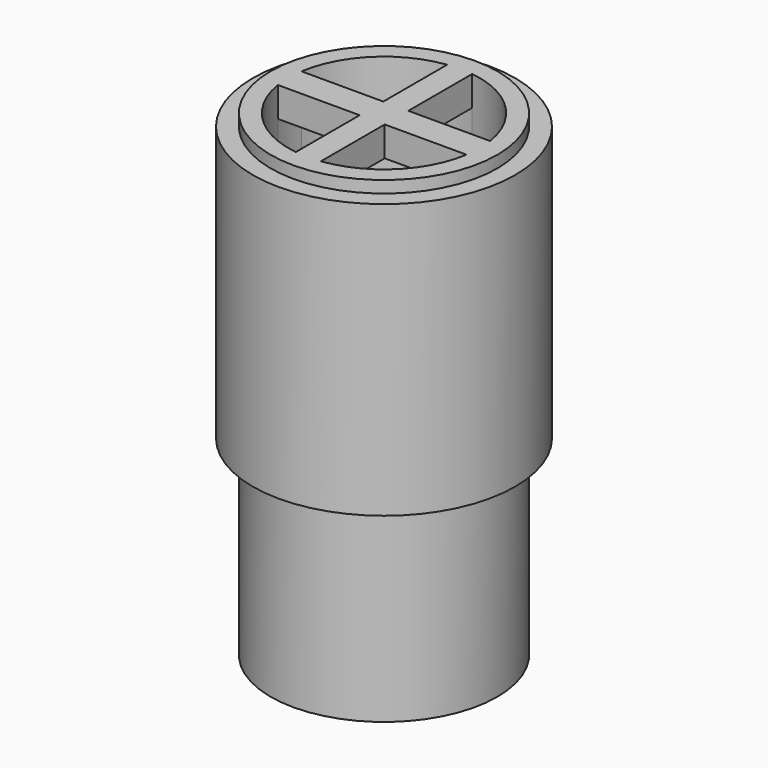
from build123d import *

# Parameters (mm, degrees)
F0_R      = 9.5
F1_DEPTH  = 20
F3_DEPTH  = 50
F5_DEPTH  = 50
F7_DEPTH  = 2.5
F8_R      = 11
F8_R_2    = 9.5
F9_DEPTH  = 39
F10_R     = 11
F10_R_2   = 9.5
F11_DEPTH = 16


with BuildPart() as f1:
    # F0 (on Top) → F1 (new body, symmetric)
    with BuildSketch(Plane.XY):
        Circle(F0_R)
    extrude(amount=F1_DEPTH, both=True)

    # F2 (on face) → F3 (cut)
    with BuildSketch(Plane.XY.offset(20)):
        with BuildLine():
            Line((-1.0508030978, 1.2395313024), (-1.0508030978, 7.9306880439))
            ThreePointArc((-1.0508030978, 7.9306880439), (-5.5890325577, 5.7238723841), (-7.9033892825, 1.2395313024))
            Line((-7.9033892825, 1.2395313024), (-1.0508030978, 1.2395313024))
        make_face()
        with BuildLine():
            Line((1.0508030978, 1.2395313024), (7.9033892825, 1.2395313024))
            ThreePointArc((7.9033892825, 1.2395313024), (5.5890325577, 5.7238723841), (1.0508030978, 7.9306880439))
            Line((1.0508030978, 7.9306880439), (1.0508030978, 1.2395313024))
        make_face()
        with BuildLine():
            ThreePointArc((1.0508030978, -7.9306880439), (5.5890325577, -5.7238723841), (7.9033892825, -1.2395313024))
            Line((7.9033892825, -1.2395313024), (1.0508030978, -1.2395313024))
            Line((1.0508030978, -1.2395313024), (1.0508030978, -7.9306880439))
        make_face()
        with BuildLine():
            ThreePointArc((-7.9033892825, -1.2395313024), (-5.5890325577, -5.7238723841), (-1.0508030978, -7.9306880439))
            Line((-1.0508030978, -7.9306880439), (-1.0508030978, -1.2395313024))
            Line((-1.0508030978, -1.2395313024), (-7.9033892825, -1.2395313024))
        make_face()
    extrude(amount=-F3_DEPTH, mode=Mode.SUBTRACT)

    # F4 (on face) + F2 (on face) → F5 (cut)
    with BuildSketch(Plane.XY.offset(20)):
        with BuildLine():
            Line((-7.9033892825, 1.2395313024), (-1.0508030978, 1.2395313024))
            Line((-1.0508030978, 1.2395313024), (-1.0508030978, 7.9306880439))
            ThreePointArc((-1.0508030978, 7.9306880439), (-5.5890325577, 5.7238723841), (-7.9033892825, 1.2395313024))
        make_face()
        with BuildLine():
            ThreePointArc((-1.0508030978, -1.2395313024), (-1.625, 0), (-1.0508030978, 1.2395313024))
            Line((-1.0508030978, 1.2395313024), (-7.9033892825, 1.2395313024))
            ThreePointArc((-7.9033892825, 1.2395313024), (-8, 0), (-7.9033892825, -1.2395313024))
            Line((-7.9033892825, -1.2395313024), (-1.0508030978, -1.2395313024))
        make_face()
        with BuildLine():
            Line((-1.0508030978, 7.9306880439), (-1.0508030978, 1.2395313024))
            ThreePointArc((-1.0508030978, 1.2395313024), (0, 1.625), (1.0508030978, 1.2395313024))
            Line((1.0508030978, 1.2395313024), (1.0508030978, 7.9306880439))
            ThreePointArc((1.0508030978, 7.9306880439), (0, 8), (-1.0508030978, 7.9306880439))
        make_face()
        with BuildLine():
            Line((1.0508030978, 7.9306880439), (1.0508030978, 1.2395313024))
            Line((1.0508030978, 1.2395313024), (7.9033892825, 1.2395313024))
            ThreePointArc((7.9033892825, 1.2395313024), (5.5890325577, 5.7238723841), (1.0508030978, 7.9306880439))
        make_face()
        with BuildLine():
            Line((7.9033892825, 1.2395313024), (1.0508030978, 1.2395313024))
            ThreePointArc((1.0508030978, 1.2395313024), (1.474479575, 0.6830336617), (1.625, 0))
            ThreePointArc((1.625, 0), (1.474479575, -0.6830336617), (1.0508030978, -1.2395313024))
            Line((1.0508030978, -1.2395313024), (7.9033892825, -1.2395313024))
            ThreePointArc((7.9033892825, -1.2395313024), (7.9758107506, -0.6216452928), (8, 0))
            ThreePointArc((8, 0), (7.9758107506, 0.6216452928), (7.9033892825, 1.2395313024))
        make_face()
        with BuildLine():
            ThreePointArc((1.0508030978, -1.2395313024), (0, -1.625), (-1.0508030978, -1.2395313024))
            Line((-1.0508030978, -1.2395313024), (-1.0508030978, -7.9306880439))
            ThreePointArc((-1.0508030978, -7.9306880439), (0, -8), (1.0508030978, -7.9306880439))
            Line((1.0508030978, -7.9306880439), (1.0508030978, -1.2395313024))
        make_face()
        with BuildLine():
            Line((-1.0508030978, -7.9306880439), (-1.0508030978, -1.2395313024))
            Line((-1.0508030978, -1.2395313024), (-7.9033892825, -1.2395313024))
            ThreePointArc((-7.9033892825, -1.2395313024), (-5.5890325577, -5.7238723841), (-1.0508030978, -7.9306880439))
        make_face()
        with BuildLine():
            Line((7.9033892825, -1.2395313024), (1.0508030978, -1.2395313024))
            Line((1.0508030978, -1.2395313024), (1.0508030978, -7.9306880439))
            ThreePointArc((1.0508030978, -7.9306880439), (5.5890325577, -5.7238723841), (7.9033892825, -1.2395313024))
        make_face()
    with BuildSketch(Plane.XY.offset(20)):
        with BuildLine():
            ThreePointArc((1.625, 0), (1.474479575, 0.6830336617), (1.0508030978, 1.2395313024))
            ThreePointArc((1.0508030978, 1.2395313024), (0, 1.625), (-1.0508030978, 1.2395313024))
            ThreePointArc((-1.0508030978, 1.2395313024), (-1.625, 0), (-1.0508030978, -1.2395313024))
            ThreePointArc((-1.0508030978, -1.2395313024), (0, -1.625), (1.0508030978, -1.2395313024))
            ThreePointArc((1.0508030978, -1.2395313024), (1.474479575, -0.6830336617), (1.625, 0))
        make_face()
    extrude(amount=-F5_DEPTH, mode=Mode.SUBTRACT)

    # F6 (on face) → F7 (join)
    with BuildSketch(Plane.XY.offset(20)):
        with BuildLine():
            ThreePointArc((-1.0508030978, -1.2395313024), (-1.625, 0), (-1.0508030978, 1.2395313024))
            Line((-1.0508030978, 1.2395313024), (-7.9033892825, 1.2395313024))
            ThreePointArc((-7.9033892825, 1.2395313024), (-8, 0), (-7.9033892825, -1.2395313024))
            Line((-7.9033892825, -1.2395313024), (-1.0508030978, -1.2395313024))
        make_face()
        with BuildLine():
            Line((-1.0508030978, 7.9306880439), (-1.0508030978, 1.2395313024))
            ThreePointArc((-1.0508030978, 1.2395313024), (0, 1.625), (1.0508030978, 1.2395313024))
            Line((1.0508030978, 1.2395313024), (1.0508030978, 7.9306880439))
            ThreePointArc((1.0508030978, 7.9306880439), (0, 8), (-1.0508030978, 7.9306880439))
        make_face()
        with BuildLine():
            ThreePointArc((1.0508030978, 1.2395313024), (0, 1.625), (-1.0508030978, 1.2395313024))
            ThreePointArc((-1.0508030978, 1.2395313024), (-1.625, 0), (-1.0508030978, -1.2395313024))
            ThreePointArc((-1.0508030978, -1.2395313024), (0, -1.625), (1.0508030978, -1.2395313024))
            ThreePointArc((1.0508030978, -1.2395313024), (1.474479575, -0.6830336617), (1.625, 0))
            ThreePointArc((1.625, 0), (1.474479575, 0.6830336617), (1.0508030978, 1.2395313024))
        make_face()
        with BuildLine():
            Line((7.9033892825, 1.2395313024), (1.0508030978, 1.2395313024))
            ThreePointArc((1.0508030978, 1.2395313024), (1.474479575, 0.6830336617), (1.625, 0))
            ThreePointArc((1.625, 0), (1.474479575, -0.6830336617), (1.0508030978, -1.2395313024))
            Line((1.0508030978, -1.2395313024), (7.9033892825, -1.2395313024))
            ThreePointArc((7.9033892825, -1.2395313024), (8, 0), (7.9033892825, 1.2395313024))
        make_face()
        with BuildLine():
            ThreePointArc((1.0508030978, -1.2395313024), (0, -1.625), (-1.0508030978, -1.2395313024))
            Line((-1.0508030978, -1.2395313024), (-1.0508030978, -7.9306880439))
            ThreePointArc((-1.0508030978, -7.9306880439), (0, -8), (1.0508030978, -7.9306880439))
            Line((1.0508030978, -7.9306880439), (1.0508030978, -1.2395313024))
        make_face()
    extrude(amount=-F7_DEPTH)

    # F8 (on face) → F9 (join)
    with BuildSketch(Plane(origin=(0, 0, -20), x_dir=(1, 0, 0), z_dir=(0, 0, -1))):
        Circle(F8_R)
        Circle(F8_R_2, mode=Mode.SUBTRACT)
    extrude(amount=-F9_DEPTH)

    # F10 (on face) → F11 (cut)
    with BuildSketch(Plane(origin=(0, 0, -20), x_dir=(1, 0, 0), z_dir=(0, 0, -1))):
        Circle(F10_R)
        Circle(F10_R_2, mode=Mode.SUBTRACT)
    extrude(amount=-F11_DEPTH, mode=Mode.SUBTRACT)


solid = f1.part
